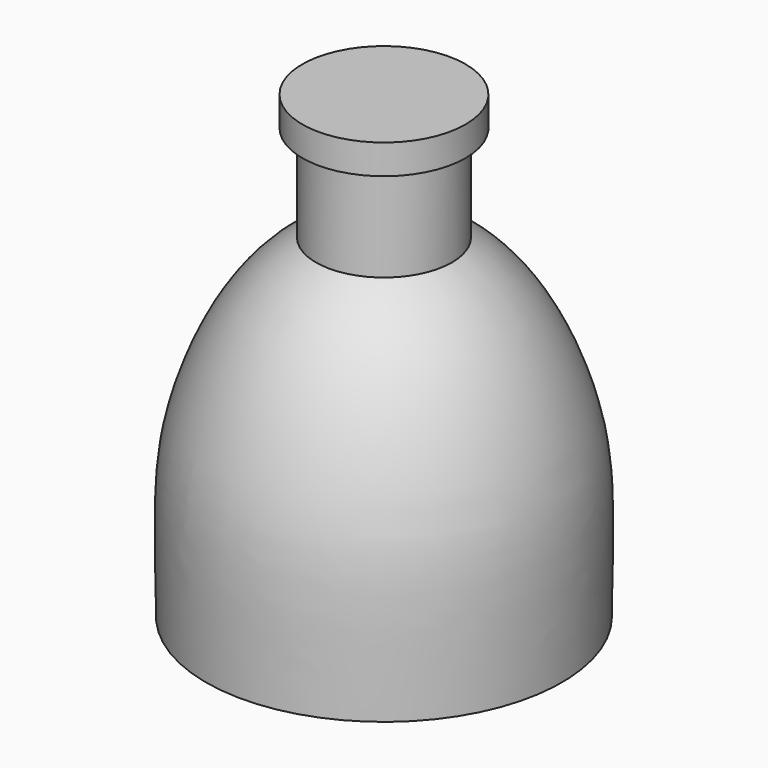
from build123d import *

# Parameters (mm, degrees)
F3_R     = 2.291344539
F4_DEPTH = 2.5
F5_R     = 2.75
F6_DEPTH = 1


with BuildPart() as f1:
    # F0 (on Front) → F1 (revolve)
    with BuildSketch(Plane.XZ):
        with BuildLine():
            Line((-6, 0), (0, 0))
            Line((0, 0), (0, 12))
            add(Edge.make_bspline(
                [(0, 12), (-3.2266811418, 11.7082983458), (-6.2449243477, 6.1923159091), (-6.0526283931, 3.414490179), (-6, 0)],
                knots=[0, 0, 0, 0, 0.5139326164, 1, 1, 1, 1], degree=3))
        make_face()
    revolve(axis=Axis((0, 0, 6), (0, 0, 1)))

    # F3 (on offset) → F4 (join, symmetric)
    with BuildSketch(Plane.XY.offset(12)):
        Circle(F3_R)
    extrude(amount=F4_DEPTH, both=True)

    # F5 (on face) → F6 (join)
    with BuildSketch(Plane.XY.offset(14.5)):
        Circle(F5_R)
    extrude(amount=F6_DEPTH)


solid = f1.part
